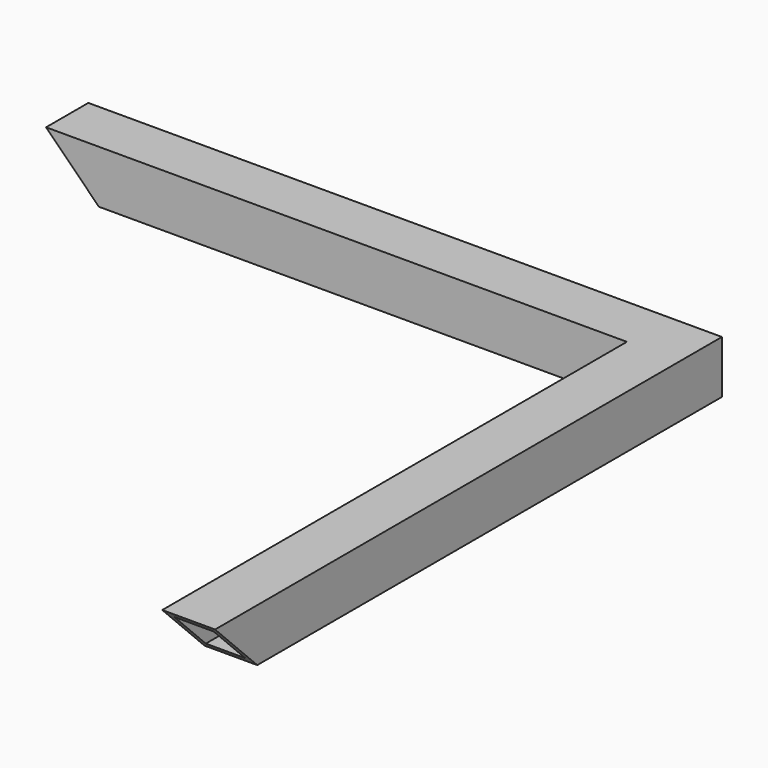
from build123d import *

# Parameters (mm, degrees)
F1_W     = 50.8
F1_H     = 50.8
F1_W_2   = 38.1
F1_H_2   = 38.1
F4_DEPTH = 50.801
F6_DEPTH = 50.801


with BuildPart() as f2:
    # F2: sweep along a path in F0
    with BuildLine(Plane.XY) as f2_path:
        Line((0, 0), (0, 584.2))
        Line((0, 584.2), (-584.2, 584.2))
    # F1 (on Front) → F2 (sweep)
    with BuildSketch(Plane.XZ):
        Rectangle(F1_W, F1_H)
        Rectangle(F1_W_2, F1_H_2, mode=Mode.SUBTRACT)
    sweep(path=f2_path.line, transition=Transition.RIGHT)

    # F3 (on face) → F4 (cut, through all)
    with BuildSketch(Plane(origin=(-25.4, 0, 0), x_dir=(0, -1, 0), z_dir=(-1, 0, 0))):
        Polygon((0, -25.4), (0, 25.4), (-50.8, -25.4), align=None)
    extrude(amount=-F4_DEPTH, mode=Mode.SUBTRACT)

    # F5 (on face) → F6 (cut, through all)
    with BuildSketch(Plane.XZ.offset(-558.8)):
        Polygon((-584.2, 25.4), (-584.2, -25.4), (-533.4, -25.4), align=None)
    extrude(amount=-F6_DEPTH, mode=Mode.SUBTRACT)


solid = f2.part
